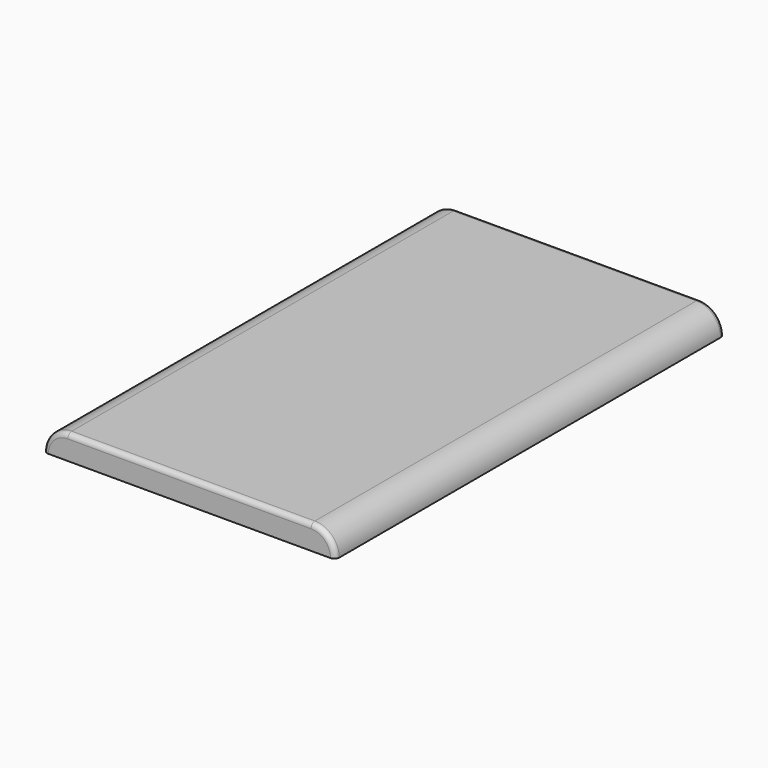
from build123d import *

# Parameters (mm, degrees)
F1_DEPTH = 200
F2_R     = 2
F3_R     = 2


with BuildPart() as f1:
    # F0 (on Front) → F1 (new body)
    with BuildSketch(Plane.XZ):
        with BuildLine():
            ThreePointArc((10, 10), (2.928932, 7.071068), (0, 0))
            Line((0, 0), (120, 0))
            ThreePointArc((120, 0), (117.071068, 7.071068), (110, 10))
            Line((110, 10), (10, 10))
        make_face()
    extrude(amount=F1_DEPTH)

    # F2
    f2_edges = [f1.edges().sort_by_distance(p)[0] for p in [
        (60, -200, 10),
    ]]
    fillet(f2_edges, radius=F2_R)

    # F3
    f3_edges = [f1.edges().sort_by_distance(p)[0] for p in [
        (60, 0, 10),
    ]]
    fillet(f3_edges, radius=F3_R)


solid = f1.part
